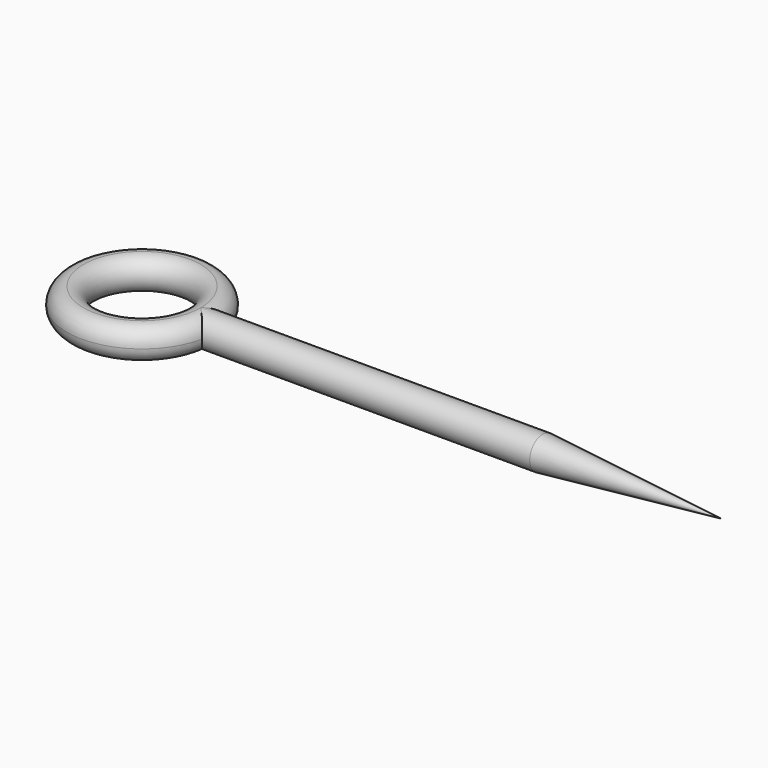
from build123d import *


with BuildPart() as f1:
    # F0 (on Front) → F1 (revolve)
    with BuildSketch(Plane.XZ):
        with BuildLine():
            ThreePointArc((18, 5), (14.464466, -3.535534), (23, 0))
            Line((23, 0), (18, 0))
            Line((18, 0), (18, 5))
        make_face()
        with BuildLine():
            Line((18, 0), (23, 0))
            ThreePointArc((23, 0), (21.535534, 3.535534), (18, 5))
            Line((18, 5), (18, 0))
        make_face()
    revolve(axis=Axis((0, 0, 25.979159), (0, 0, 1)))

    # F0 (on Front) → F2 (revolve)
    with BuildSketch(Plane.XZ):
        with BuildLine():
            ThreePointArc((18, 5), (21.535534, 3.535534), (23, 0))
            Line((23, 0), (178, 0))
            Line((178, 0), (123, 5))
            Line((123, 5), (18, 5))
        make_face()
        with BuildLine():
            Line((18, 0), (23, 0))
            ThreePointArc((23, 0), (21.535534, 3.535534), (18, 5))
            Line((18, 5), (18, 0))
        make_face()
    revolve(axis=Axis((98, 0, 0), (-1, 0, 0)))


solid = f1.part
